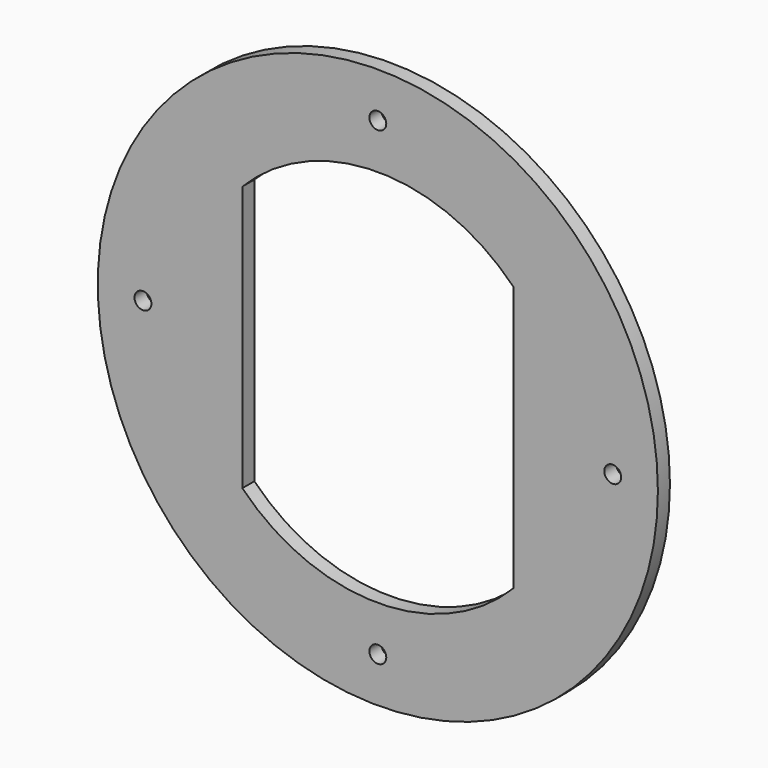
from build123d import *

# Parameters (mm, degrees)
F0_R     = 118.11
F0_R_2   = 3.556
F1_DEPTH = 6.35


with BuildPart() as f1:
    # F0 (on Front) → F1 (new body)
    with BuildSketch(Plane.XZ):
        Circle(F0_R)
        with Locations((0, -99.06)):
            Circle(F0_R_2, mode=Mode.SUBTRACT)
        with Locations((-99.06, 0)):
            Circle(F0_R_2, mode=Mode.SUBTRACT)
        with BuildLine():
            ThreePointArc((57.15, -55.995336), (0, -80.01), (-57.15, -55.995336))
            Line((-57.15, -55.995336), (-57.15, 55.995336))
            ThreePointArc((-57.15, 55.995336), (0, 80.01), (57.15, 55.995336))
            Line((57.15, 55.995336), (57.15, -55.995336))
        make_face(mode=Mode.SUBTRACT)
        with Locations((99.06, 0)):
            Circle(F0_R_2, mode=Mode.SUBTRACT)
        with Locations((0, 99.06)):
            Circle(F0_R_2, mode=Mode.SUBTRACT)
        Circle(F0_R)
        with Locations((0, -99.06)):
            Circle(F0_R_2, mode=Mode.SUBTRACT)
        with Locations((-99.06, 0)):
            Circle(F0_R_2, mode=Mode.SUBTRACT)
        with BuildLine():
            ThreePointArc((57.15, -55.995336), (0, -80.01), (-57.15, -55.995336))
            Line((-57.15, -55.995336), (-57.15, 55.995336))
            ThreePointArc((-57.15, 55.995336), (0, 80.01), (57.15, 55.995336))
            Line((57.15, 55.995336), (57.15, -55.995336))
        make_face(mode=Mode.SUBTRACT)
        with Locations((99.06, 0)):
            Circle(F0_R_2, mode=Mode.SUBTRACT)
        with Locations((0, 99.06)):
            Circle(F0_R_2, mode=Mode.SUBTRACT)
        Circle(F0_R)
        with Locations((0, -99.06)):
            Circle(F0_R_2, mode=Mode.SUBTRACT)
        with Locations((-99.06, 0)):
            Circle(F0_R_2, mode=Mode.SUBTRACT)
        with BuildLine():
            ThreePointArc((57.15, -55.995336), (0, -80.01), (-57.15, -55.995336))
            Line((-57.15, -55.995336), (-57.15, 55.995336))
            ThreePointArc((-57.15, 55.995336), (0, 80.01), (57.15, 55.995336))
            Line((57.15, 55.995336), (57.15, -55.995336))
        make_face(mode=Mode.SUBTRACT)
        with Locations((99.06, 0)):
            Circle(F0_R_2, mode=Mode.SUBTRACT)
        with Locations((0, 99.06)):
            Circle(F0_R_2, mode=Mode.SUBTRACT)
    extrude(amount=F1_DEPTH)


solid = f1.part
